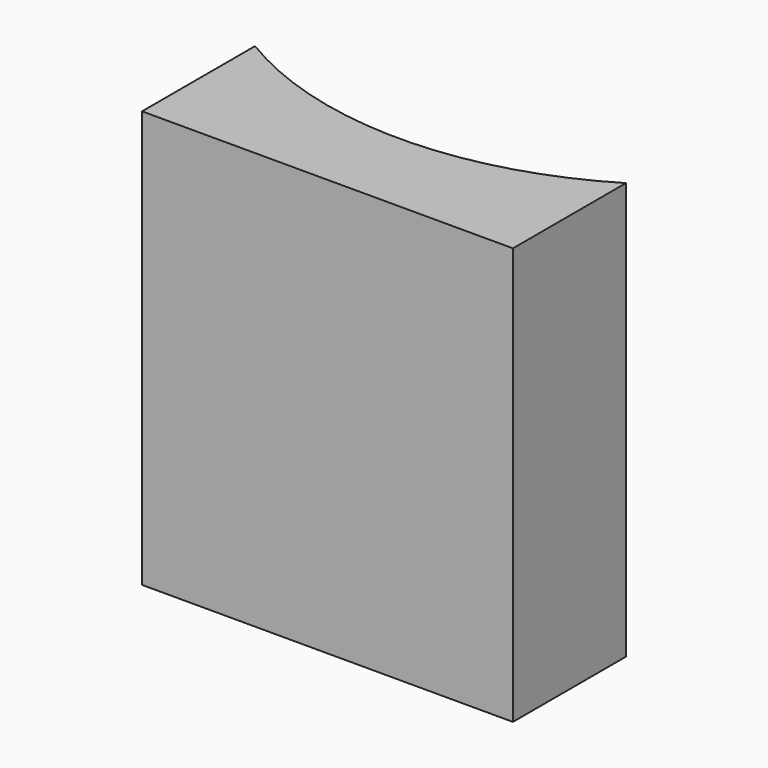
from build123d import *

# Parameters (mm, degrees)
CYLINDER001_R       = 14
CYLINDER001_DEPTH   = 19
BOX_W               = 17.5
BOX_H               = 14.5
BOX_DEPTH           = 16.3
CUT_PLACEMENT_ANGLE = -90


with BuildPart() as cylinder001:
    # Cylinder001 → Cylinder001 (new body)
    with BuildSketch(Plane.XY):
        Circle(CYLINDER001_R)
    extrude(amount=CYLINDER001_DEPTH)


with BuildPart() as cut:
    # Box → Box (new body)
    with BuildSketch(Plane(origin=(0, -7.25, 2.7), x_dir=(1, 0, 0), z_dir=(0, 0, 1))):
        with Locations((8.75, 7.25)):
            Rectangle(BOX_W, BOX_H)
    extrude(amount=BOX_DEPTH)

    # Cut: cut Cylinder001
    add(cylinder001.part, mode=Mode.SUBTRACT)


with BuildPart() as cut_1:
    # Cut placement: moved
    add(cut.part.rotate(Axis((0, 0, 0), (0, 0, 1)), CUT_PLACEMENT_ANGLE))


solid = cut_1.part
